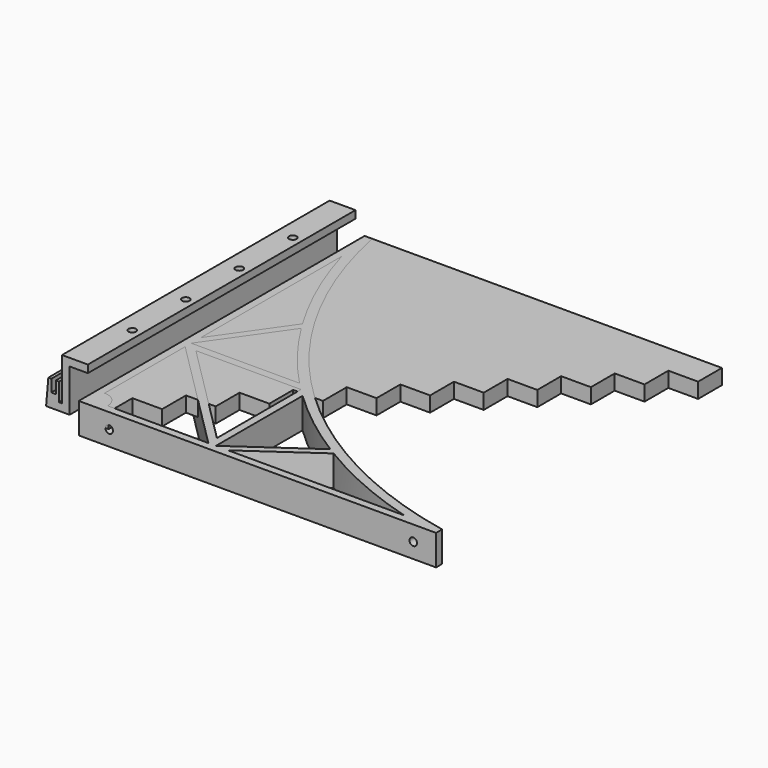
from build123d import *

# Parameters (mm, degrees)
PAD_DEPTH            = 10
POCKET_DEPTH         = 3
PAD001_DEPTH         = 10
PAD001_DEPTH_BACK    = 10
SKETCH003_R          = 2.5
POCKET001_DEPTH      = 50
SKETCH004_R          = 3.175
PAD002_DEPTH         = 5
FILLET_R             = 3.175
SKETCH009_R          = 2.5
POCKET004_DEPTH      = 20
SKETCH010_W          = 169.420898
SKETCH010_H          = 244.634888
POCKET005_DEPTH      = 100
POCKET005_DEPTH_BACK = -100
PAD003_DEPTH         = 220
SKETCH007_R          = 2.5
POCKET002_DEPTH      = 5
SKETCH008_W          = 33.656536
SKETCH008_H          = 69.505769
POCKET003_DEPTH      = 1000
POCKET003_DEPTH_BACK = -10000


with BuildPart() as obj1:
    # Sketch → Pad (new body)
    with BuildSketch(Plane.XY):
        Polygon((0, 0), (19.583333, 0), (19.583333, 19.583333), (39.166667, 19.583333), (39.166667, 39.166667), (58.75, 39.166667), (58.75, 58.75), (78.333333, 58.75), (78.333333, 78.333333), (97.916667, 78.333333), (97.916667, 97.916667), (117.5, 97.916667), (117.5, 117.5), (137.083333, 117.5), (137.083333, 137.083333), (156.666667, 137.083333), (156.666667, 156.666667), (176.25, 156.666667), (176.25, 176.25), (195.833333, 176.25), (195.833333, 195.833333), (215.416667, 195.833333), (215.416667, 215.416667), (235, 215.416667), (235, 235), (0, 235), align=None)
    extrude(amount=PAD_DEPTH)

    # Sketch001 (on Face28 of Pad) → Pocket (cut)
    with BuildSketch(Plane.XY.offset(10)):
        Polygon((74.866753, 25.089148), (93.950086, 25.089148), (94.200086, 24.839148), (93.950086, 24.589148), (74.866753, 24.589148), (74.616753, 24.839148), align=None)
    extrude(amount=-POCKET_DEPTH, mode=Mode.SUBTRACT)


with BuildPart() as simple:
    # Sketch002 → Pad001 (new body, two sides)
    with BuildSketch(Plane.XY) as pad001_sk:
        with BuildLine():
            Line((0, 0), (0, 235))
            Line((0, 235), (5, 235))
            ThreePointArc((5, 235), (85.389585, 85.389585), (235, 5))
            Line((235, 5), (235, 0))
            Line((235, 0), (0, 0))
        make_face()
        with BuildLine():
            Line((5, 210), (5, 94.212312))
            Line((5, 94.212312), (36.158256, 138.710913))
            ThreePointArc((5, 210), (18.263415, 173.34333), (36.158256, 138.710913))
        make_face(mode=Mode.SUBTRACT)
        with BuildLine():
            Line((15, 5), (81.216914, 5))
            Line((81.216914, 5), (5, 81.216914))
            Line((5, 81.216914), (5, 15))
            ThreePointArc((15, 5), (12.071068, 12.071068), (5, 15))
        make_face(mode=Mode.SUBTRACT)
        with BuildLine():
            Line((5, 86.216914), (76.216914, 86.216914))
            ThreePointArc((38.772184, 134.448592), (56.266923, 109.379684), (76.216914, 86.216914))
            Line((5, 86.216914), (38.772184, 134.448592))
        make_face(mode=Mode.SUBTRACT)
        with BuildLine():
            Line((86.216914, 5), (86.216914, 76.216914))
            ThreePointArc((86.216914, 76.216914), (109.379684, 56.266923), (134.448592, 38.772184))
            Line((86.216914, 5), (134.448592, 38.772184))
        make_face(mode=Mode.SUBTRACT)
        Polygon((12.071068, 81.216914), (81.216914, 81.216914), (81.216914, 12.071068), align=None, mode=Mode.SUBTRACT)
        with BuildLine():
            Line((94.212312, 5), (210, 5))
            ThreePointArc((138.710913, 36.158256), (173.34333, 18.263415), (210, 5))
            Line((94.212312, 5), (138.710913, 36.158256))
        make_face(mode=Mode.SUBTRACT)
    extrude(amount=PAD001_DEPTH)
    extrude(pad001_sk.sketch, amount=-PAD001_DEPTH_BACK)

    # Sketch003 (on Face5 of Pad001) → Pocket001 (cut)
    with BuildSketch(Plane.XZ):
        with Locations((20, 0)):
            Circle(SKETCH003_R)
        with Locations((220, 0)):
            Circle(SKETCH003_R)
    extrude(amount=-POCKET001_DEPTH, mode=Mode.SUBTRACT)

    # Sketch004 (on Face1 of Pocket001) → Pad002 (join)
    with BuildSketch(Plane(origin=(0, 0, 0), x_dir=(0, -1, 0), z_dir=(-1, 0, 0))):
        with Locations((-220, 0)):
            Circle(SKETCH004_R)
    extrude(amount=PAD002_DEPTH)

    # Fillet
    fillet_edges = [simple.edges().sort_by_distance(p)[0] for p in [
        (-5, 223.175, 0),
    ]]
    fillet(fillet_edges, radius=FILLET_R)

    # Sketch009 (on Face3 of Fillet) → Pocket004 (cut)
    with BuildSketch(Plane(origin=(0, 0, 0), x_dir=(0, -1, 0), z_dir=(-1, 0, 0))):
        with Locations((-20, 0)):
            Circle(SKETCH009_R)
        with Locations((-220, 0)):
            Circle(SKETCH009_R)
    extrude(amount=-POCKET004_DEPTH, mode=Mode.SUBTRACT)

    # Sketch010 → Pocket005 (cut, two sides)
    with BuildSketch(Plane.XY) as pocket005_sk:
        with Locations((-84.710449, 122.317444)):
            Rectangle(SKETCH010_W, SKETCH010_H)
    extrude(amount=-POCKET005_DEPTH, mode=Mode.SUBTRACT)
    extrude(pocket005_sk.sketch, amount=-POCKET005_DEPTH_BACK, mode=Mode.SUBTRACT)


with BuildPart() as bin_hangar:
    # Pad003_Profile → Pad003 (new body)
    with BuildSketch(Plane(origin=(0, 0, 14.181195), x_dir=(1, 0, 0), z_dir=(0, 1, 0))):
        Polygon((-11, 9.181195), (-11, -18.818805), (11, -18.818805), (11, 9.181195), (13, 9.181195), (13, -2.818805), (15, -2.818805), (15, 5.181195), (18, 5.181195), (18, -2.818805), (20, -2.818805), (21.487307, 14.181195), (6, 14.181195), (6, -13.818805), (-6, -13.818805), (-6, 14.181195), (-21.487307, 14.181195), (-20, -2.818805), (-18, -2.818805), (-18, 5.181195), (-15, 5.181195), (-15, -2.818805), (-13, -2.818805), (-13, 9.181195), align=None)
    extrude(amount=PAD003_DEPTH)

    # Sketch007 (on Face24 of Pad003) → Pocket002 (cut)
    with BuildSketch(Plane.XY.offset(33)):
        with Locations((0, 44)):
            Circle(SKETCH007_R)
        with Locations((0, 88)):
            Circle(SKETCH007_R)
        with Locations((0, 132)):
            Circle(SKETCH007_R)
        with Locations((0, 176)):
            Circle(SKETCH007_R)
    extrude(amount=-POCKET002_DEPTH, mode=Mode.SUBTRACT)

    # Sketch008 → Pocket003 (cut, two sides)
    with BuildSketch(Plane.XZ) as pocket003_sk:
        with Locations((22.828268, 23.419987)):
            Rectangle(SKETCH008_W, SKETCH008_H)
    extrude(amount=-POCKET003_DEPTH, mode=Mode.SUBTRACT)
    extrude(pocket003_sk.sketch, amount=-POCKET003_DEPTH_BACK, mode=Mode.SUBTRACT)


solid = Compound([obj1.part, simple.part, bin_hangar.part])
